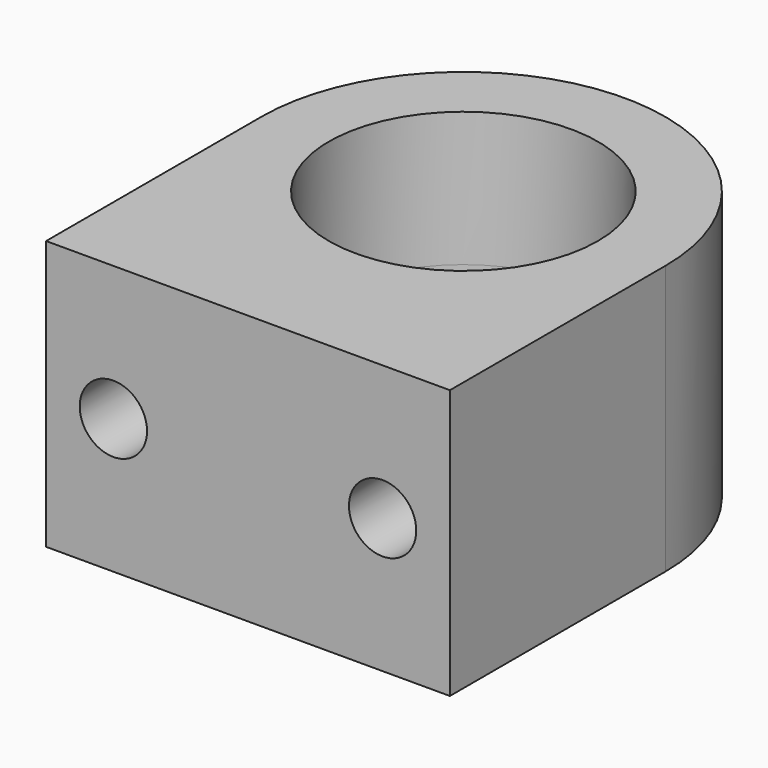
from build123d import *

# Parameters (mm, degrees)
F0_R          = 12.7
F1_DEPTH      = 12.7
F1_DEPTH_BACK = 12.7
F2_R          = 3.175
F3_DEPTH      = 12.7


with BuildPart() as f1:
    # F0 (on Top) → F1 (new body, two sides)
    with BuildSketch(Plane.XY) as f1_sk:
        with BuildLine():
            Line((19.05, -25.4), (19.05, 0))
            ThreePointArc((19.05, 0), (0, 19.05), (-19.05, 0))
            Line((-19.05, 0), (-19.05, -25.4))
            Line((-19.05, -25.4), (19.05, -25.4))
        make_face()
        Circle(F0_R, mode=Mode.SUBTRACT)
    extrude(amount=F1_DEPTH)
    extrude(f1_sk.sketch, amount=-F1_DEPTH_BACK)

    # F2 (on face) → F3 (cut)
    with BuildSketch(Plane.XZ.offset(25.4)):
        with Locations((-12.7, 0)):
            Circle(F2_R)
        with Locations((12.7, 0)):
            Circle(F2_R)
    extrude(amount=-F3_DEPTH, mode=Mode.SUBTRACT)


solid = f1.part
